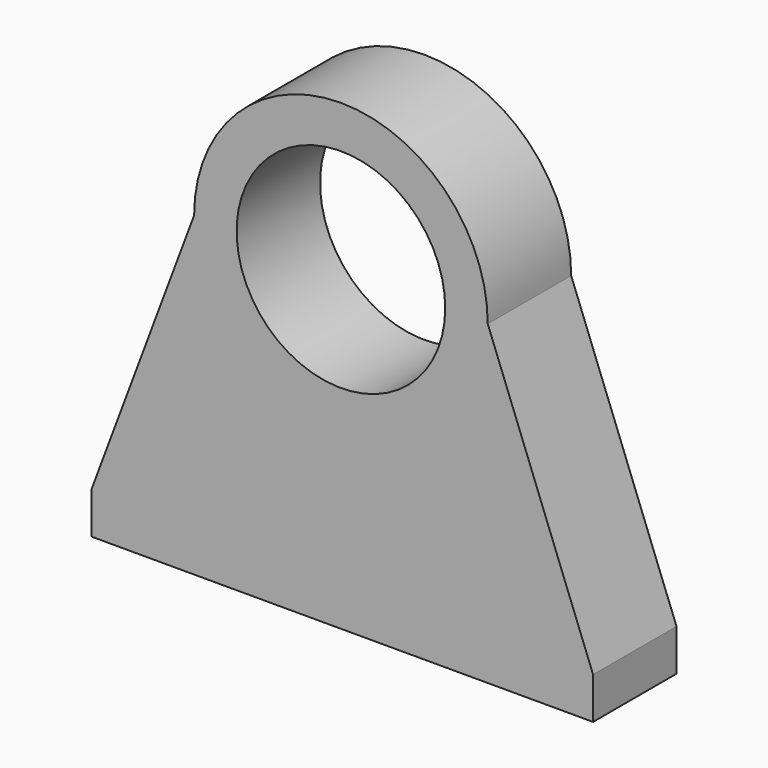
from build123d import *

# Parameters (mm, degrees)
F0_R     = 25
F0_W     = 120.21853
F0_H     = 10
F1_DEPTH = 25


with BuildPart() as f1:
    # F0 (on Front) → F1 (new body)
    with BuildSketch(Plane.XZ):
        with BuildLine():
            ThreePointArc((-35.192055, 0), (0, -35.192055), (35.192055, 0))
            ThreePointArc((35.192055, 0), (0, 35.192055), (-35.192055, 0))
        make_face()
        Circle(F0_R, mode=Mode.SUBTRACT)
        with BuildLine():
            Line((60.433889, -65.79858), (35.192055, 0))
            ThreePointArc((35.192055, 0), (0, -35.192055), (-35.192055, 0))
            Line((-35.192055, 0), (-59.784641, -65.79858))
            Line((-59.784641, -65.79858), (60.433889, -65.79858))
        make_face()
        with Locations((0.324624, -70.79858)):
            Rectangle(F0_W, F0_H)
    extrude(amount=F1_DEPTH)


solid = f1.part
